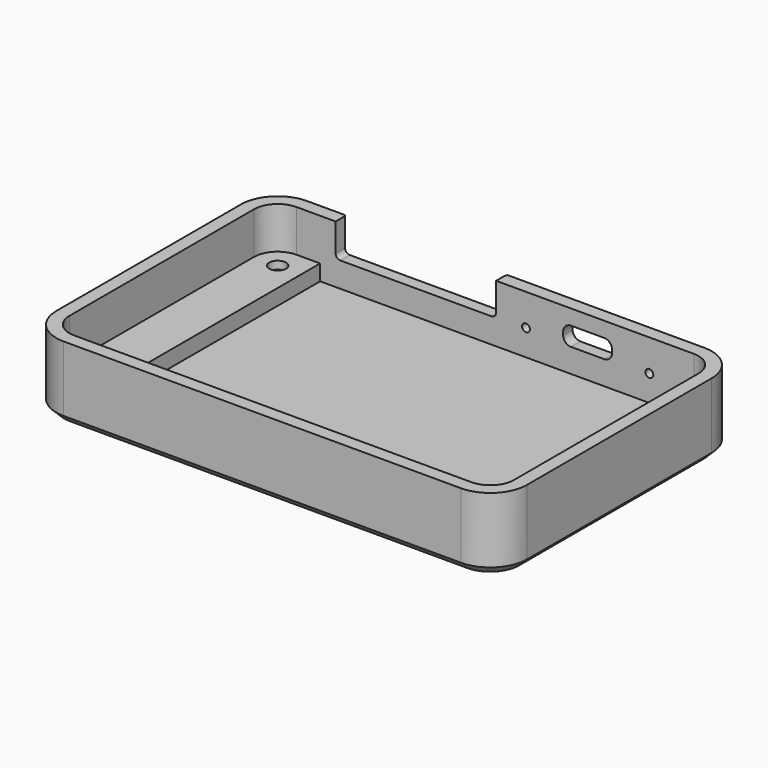
from build123d import *

# Parameters (mm, degrees)
PAD_DEPTH       = 14
POCKET_DEPTH    = 13
SKETCH002_R     = 0.75
POCKET001_DEPTH = 5
SKETCH003_W     = 9
SKETCH003_H     = 54
PAD001_DEPTH    = 6
SKETCH004_R     = 1.6
POCKET002_DEPTH = 10
POCKET003_DEPTH = 4.5
CHAMFER001_SIZE = 1.5
CHAMFER003_SIZE = 0.25


with BuildPart() as part:
    # Sketch → Pad (new body)
    with BuildSketch(Plane.XY.offset(-6)):
        with BuildLine():
            ThreePointArc((-18.5, 103), (-23.449747, 100.949747), (-25.5, 96))
            Line((-25.5, 52), (-25.5, 96))
            ThreePointArc((-25.5, 52), (-23.449747, 47.050253), (-18.5, 45))
            Line((57.25, 45), (-18.5, 45))
            ThreePointArc((57.25, 45), (62.199747, 47.050253), (64.25, 52))
            Line((64.25, 96), (64.25, 52))
            ThreePointArc((64.25, 96), (62.199747, 100.949747), (57.25, 103))
            Line((-18.5, 103), (57.25, 103))
        make_face()
    extrude(amount=PAD_DEPTH)

    # Sketch001 → Pocket (cut)
    with BuildSketch(Plane.XY.offset(10)):
        with BuildLine():
            ThreePointArc((-18.5, 100.5), (-21.681981, 99.181981), (-23, 96))
            Line((-23, 52), (-23, 96))
            ThreePointArc((-23, 52), (-21.681981, 48.818019), (-18.5, 47.5))
            Line((57.25, 47.5), (-18.5, 47.5))
            ThreePointArc((57.25, 47.5), (60.431981, 48.818019), (61.75, 52))
            Line((61.75, 96), (61.75, 52))
            ThreePointArc((61.75, 96), (60.431981, 99.181981), (57.25, 100.5))
            Line((-18.5, 100.5), (57.25, 100.5))
        make_face()
    extrude(amount=-POCKET_DEPTH, mode=Mode.SUBTRACT)

    # Sketch002 → Pocket001 (cut)
    with BuildSketch(Plane(origin=(0, 104, 0), x_dir=(-1, 0, 0), z_dir=(0, 1, 0))):
        with Locations((-48.76875, 1.95)):
            Circle(SKETCH002_R)
        with Locations((-25.25, 1.95)):
            Circle(SKETCH002_R)
        with BuildLine():
            ThreePointArc((-40.17, 5.11), (-41.23066, 4.67066), (-41.67, 3.61))
            Line((-41.67, 3.05), (-41.67, 3.61))
            ThreePointArc((-41.67, 3.05), (-41.23066, 1.98934), (-40.17, 1.55))
            Line((-33.83, 1.55), (-40.17, 1.55))
            ThreePointArc((-33.83, 1.55), (-32.76934, 1.98934), (-32.33, 3.05))
            Line((-32.33, 3.61), (-32.33, 3.05))
            ThreePointArc((-32.33, 3.61), (-32.76934, 4.67066), (-33.83, 5.11))
            Line((-40.17, 5.11), (-33.83, 5.11))
        make_face()
        with BuildLine():
            ThreePointArc((-18.65, 14.05), (-19.286396, 13.786396), (-19.55, 13.15))
            Line((-19.55, 2.65), (-19.55, 13.15))
            ThreePointArc((-19.55, 2.65), (-19.286396, 2.013604), (-18.65, 1.75))
            Line((10.15, 1.75), (-18.65, 1.75))
            ThreePointArc((10.15, 1.75), (10.786396, 2.013604), (11.05, 2.65))
            Line((11.05, 13.15), (11.05, 2.65))
            ThreePointArc((11.05, 13.15), (10.786396, 13.786396), (10.15, 14.05))
            Line((-18.65, 14.05), (10.15, 14.05))
        make_face()
    extrude(amount=-POCKET001_DEPTH, mode=Mode.SUBTRACT)

    # Sketch003 → Pad001 (join)
    with BuildSketch(Plane.XY.offset(-6)):
        with Locations((-18.5, 74)):
            Rectangle(SKETCH003_W, SKETCH003_H)
        with Locations((57.25, 74)):
            Rectangle(SKETCH003_W, SKETCH003_H)
    extrude(amount=PAD001_DEPTH)

    # Sketch004 → Pocket002 (cut)
    with BuildSketch(Plane.XY):
        with Locations((-18.5, 96)):
            Circle(SKETCH004_R)
        with Locations((-18.5, 53)):
            Circle(SKETCH004_R)
        with Locations((57.25, 53)):
            Circle(SKETCH004_R)
        with Locations((57.25, 96)):
            Circle(SKETCH004_R)
    extrude(amount=-POCKET002_DEPTH, mode=Mode.SUBTRACT)

    # Sketch005 → Pocket003 (cut)
    with BuildSketch(Plane(origin=(0, 0, -6), x_dir=(-1, 0, 0), z_dir=(0, 0, -1))):
        Polygon((21.25, 94.412287), (21.25, 97.587713), (18.5, 99.175426), (15.75, 97.587713), (15.75, 94.412287), (18.5, 92.824574), align=None)
        Polygon((21.25, 51.412287), (21.25, 54.587713), (18.5, 56.175426), (15.75, 54.587713), (15.75, 51.412287), (18.5, 49.824574), align=None)
        Polygon((-54.5, 54.587713), (-57.25, 56.175426), (-60, 54.587713), (-60, 51.412287), (-57.25, 49.824574), (-54.5, 51.412287), align=None)
        Polygon((-54.5, 94.412287), (-54.5, 97.587713), (-57.25, 99.175426), (-60, 97.587713), (-60, 94.412287), (-57.25, 92.824574), align=None)
    extrude(amount=-POCKET003_DEPTH, mode=Mode.SUBTRACT)

    # Chamfer001
    chamfer001_edges = [part.edges().sort_by_distance(p)[0] for p in [
        (64.25, 74, -6),
    ]]
    chamfer(chamfer001_edges, length=CHAMFER001_SIZE)

    # Chamfer003
    chamfer003_edges = [part.edges().sort_by_distance(p)[0] for p in [
        (49.51875, 103, 1.95),
        (37, 103, 5.11),
        (26, 103, 1.95),
        (19.55, 103, 5.325),
    ]]
    chamfer(chamfer003_edges, length=CHAMFER003_SIZE)


solid = part.part
